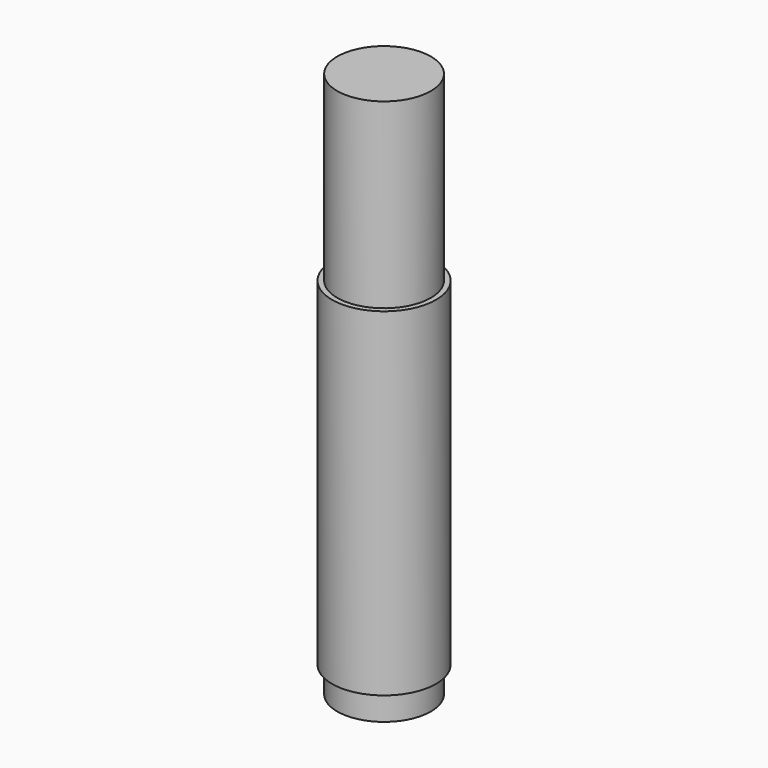
from build123d import *

# Parameters (mm, degrees)
F0_R          = 10
F0_R_2        = 9
F1_DEPTH      = 65
F2_DEPTH      = 5
F2_DEPTH_BACK = -100


with BuildPart() as f1:
    # F0 (on Top) → F1 (new body)
    with BuildSketch(Plane.XY):
        Circle(F0_R)
        Circle(F0_R_2, mode=Mode.SUBTRACT)
        Circle(F0_R_2)
    extrude(amount=F1_DEPTH)

    # F0 (on Top) → F2 (join, two sides)
    with BuildSketch(Plane.XY) as f2_sk:
        Circle(F0_R_2)
    extrude(amount=-F2_DEPTH)
    extrude(f2_sk.sketch, amount=-F2_DEPTH_BACK)


solid = f1.part
